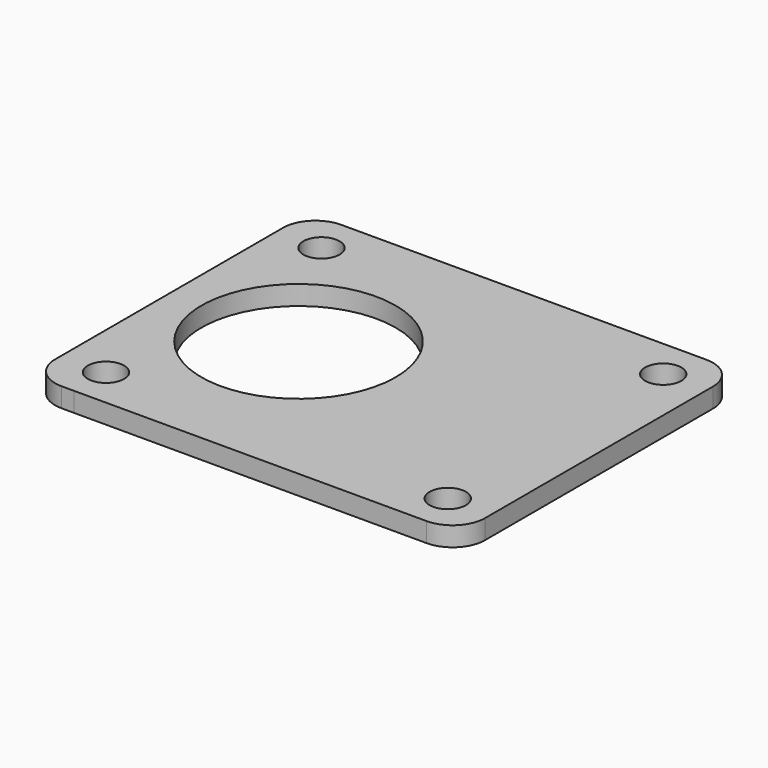
from build123d import *

# Parameters (mm, degrees)
F0_R     = 2.8
F0_R_2   = 15
F1_DEPTH = 3


with BuildPart() as f1:
    # F0 (on Top) → F1 (new body)
    with BuildSketch(Plane.XY):
        with BuildLine():
            ThreePointArc((-26.706644, -20.8), (-31.486543, -18.820101), (-29.506644, -23.6))
            ThreePointArc((-29.506644, -23.6), (-27.526745, -22.779899), (-26.706644, -20.8))
        make_face()
        with BuildLine():
            ThreePointArc((-31.406644, 27), (-34.942178, 25.535534), (-36.406644, 22))
            Line((-36.406644, 22), (-36.406644, -22))
            ThreePointArc((-36.406644, -22), (-34.942178, -25.535534), (-31.406644, -27))
            Line((-31.406644, -27), (-29.506644, -27))
            Line((-29.506644, -27), (24.993356, -27.000001))
            ThreePointArc((24.993356, -27.000001), (28.52889, -25.535535), (29.993356, -22.000001))
            Line((29.993356, -22.000001), (29.993356, 22))
            ThreePointArc((29.993356, 22), (28.52889, 25.535534), (24.993356, 27))
            Line((24.993356, 27), (-31.406644, 27))
        make_face()
        with BuildLine():
            ThreePointArc((-26.706644, -20.8), (-27.526745, -22.779899), (-29.506644, -23.6))
            ThreePointArc((-29.506644, -23.6), (-31.486543, -18.820101), (-26.706644, -20.8))
        make_face(mode=Mode.SUBTRACT)
        with Locations((23.283356, -20.8)):
            Circle(F0_R, mode=Mode.SUBTRACT)
        with Locations((-16.406644, 0)):
            Circle(F0_R_2, mode=Mode.SUBTRACT)
        with Locations((-29.506644, 20.8)):
            Circle(F0_R, mode=Mode.SUBTRACT)
        with Locations((23.283356, 20.8)):
            Circle(F0_R, mode=Mode.SUBTRACT)
    extrude(amount=F1_DEPTH)


solid = f1.part
